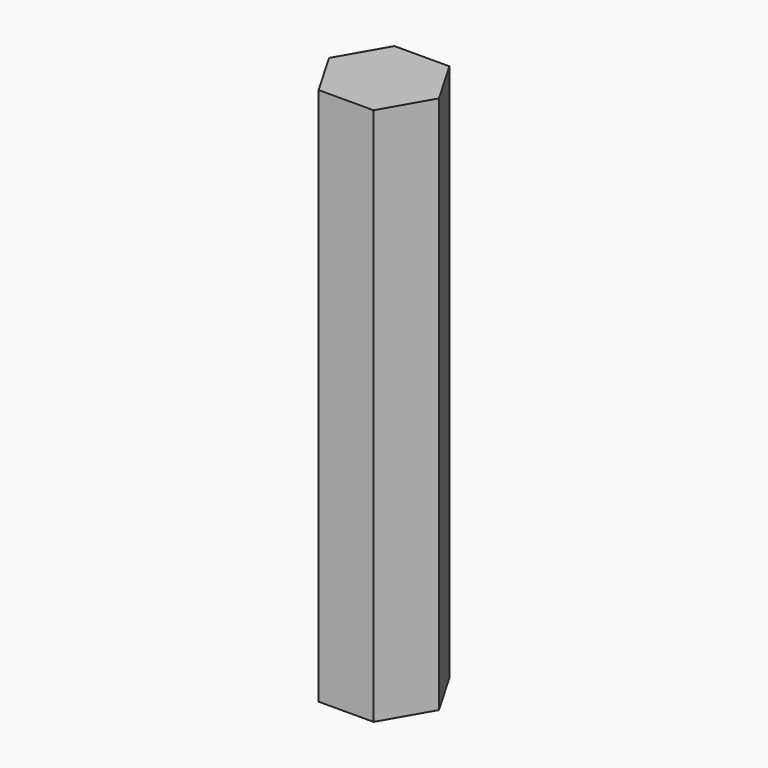
from build123d import *


with BuildPart() as f2:
    # F2: sweep along a path in F1
    with BuildLine(Plane.YZ) as f2_path:
        Line((0, 0), (0, 107.95))
    # F0 (on Top) → F2 (sweep)
    with BuildSketch(Plane.XY):
        Polygon((5.520493, -9.51271), (10.998495, 0.024532), (5.478003, 9.537242), (-5.520493, 9.51271), (-10.998495, -0.024532), (-5.478003, -9.537242), align=None)
    sweep(path=f2_path.line)


solid = f2.part
